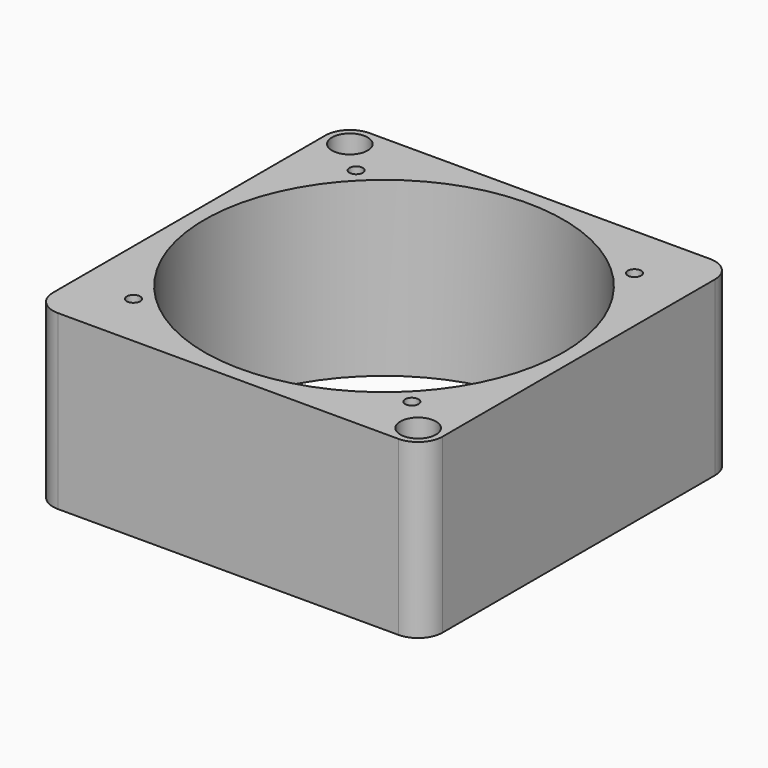
from build123d import *

# Parameters (mm, degrees)
F0_W     = 70
F0_H     = 70
F0_R     = 3.2
F0_R_2   = 32.25
F1_DEPTH = 31
F0_R_3   = 1.5
F2_DEPTH = 5
F3_DEPTH = 5
F5_D     = 2.4
F5_DEPTH = 8
F5_TIP   = 0.7210327428
F6_R     = 4.4


with BuildPart() as f1:
    # F0 (on Top) → F1 (new body)
    with BuildSketch(Plane.XY):
        Rectangle(F0_W, F0_H)
        with Locations((30.7, -30.7)):
            Circle(F0_R, mode=Mode.SUBTRACT)
        with Locations((-30.7, 30.7)):
            Circle(F0_R, mode=Mode.SUBTRACT)
        Circle(F0_R_2, mode=Mode.SUBTRACT)
    extrude(amount=F1_DEPTH)

    # F0 (on Top) → F2 (join)
    with BuildSketch(Plane.XY):
        with Locations((-30.7, 30.7)):
            Circle(F0_R)
        with Locations((-30.7, 30.7)):
            Circle(F0_R_3, mode=Mode.SUBTRACT)
    extrude(amount=F2_DEPTH)

    # F0 (on Top) → F3 (join)
    with BuildSketch(Plane.XY):
        with Locations((30.7, -30.7)):
            Circle(F0_R)
        with Locations((30.7, -30.7)):
            Circle(F0_R_3, mode=Mode.SUBTRACT)
    extrude(amount=F3_DEPTH)

    # F5
    with Locations(Plane.XY.offset(31)):
        with Locations((-25, -25), (25, 25), (-25, 25), (25, -25)):
            Hole(F5_D / 2, depth=F5_DEPTH)
            with Locations((0, 0, -(F5_DEPTH + F5_TIP / 2))):  # 118° drill point
                Cone(0, F5_D / 2, F5_TIP, mode=Mode.SUBTRACT)

    # F6
    f6_edges = [f1.edges().sort_by_distance(p)[0] for p in [
        (-35, -35, 15.5),
        (35, -35, 15.5),
        (35, 35, 15.5),
        (-35, 35, 15.5),
    ]]
    fillet(f6_edges, radius=F6_R)


solid = f1.part
